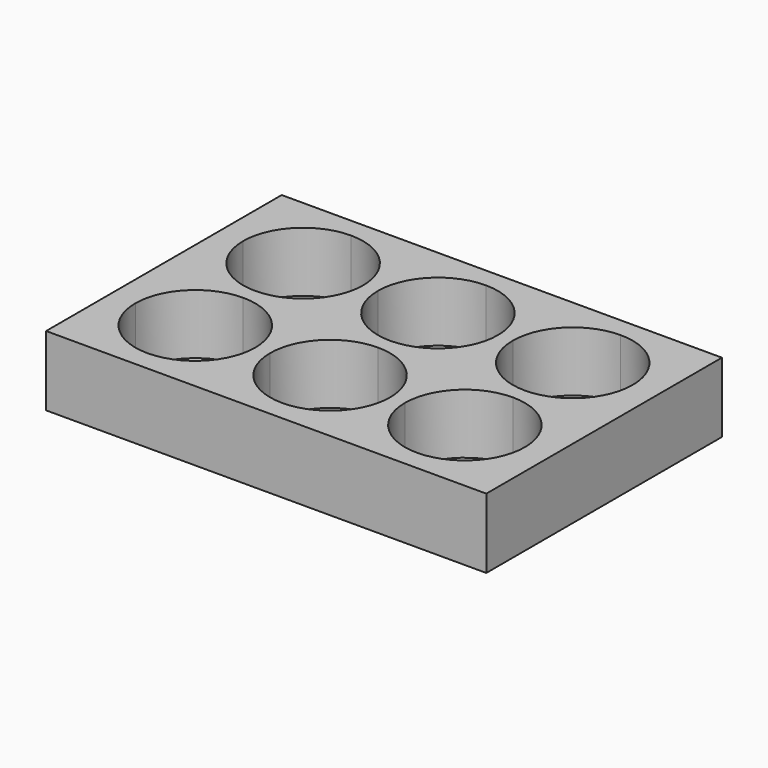
from build123d import *

# Parameters (mm, degrees)
F0_W     = 127.76
F0_H     = 85.47
F1_DEPTH = 20.27
F3_DEPTH = 17.4


with BuildPart() as f1:
    # F0 (on Top) → F1 (new body)
    with BuildSketch(Plane.XY):
        Rectangle(F0_W, F0_H)
    extrude(amount=F1_DEPTH)

    # F2 (on face) → F3 (cut)
    with BuildSketch(Plane.XY.offset(20.27)):
        with BuildLine():
            Line((-39.185, 19.64), (-39.185, 37.04))
            ThreePointArc((-39.185, 37.04), (-51.4886579926, 31.9436579926), (-56.585, 19.64))
            Line((-56.585, 19.64), (-39.185, 19.64))
        make_face()
        with BuildLine():
            ThreePointArc((-21.785, 19.64), (-26.8813420074, 31.9436579926), (-39.185, 37.04))
            Line((-39.185, 37.04), (-39.185, 19.64))
            Line((-39.185, 19.64), (-21.785, 19.64))
        make_face()
        with BuildLine():
            Line((-21.785, 19.64), (-39.185, 19.64))
            Line((-39.185, 19.64), (-39.185, 2.24))
            ThreePointArc((-39.185, 2.24), (-26.8813420074, 7.3363420074), (-21.785, 19.64))
        make_face()
        with BuildLine():
            Line((-39.185, 2.24), (-39.185, 19.64))
            Line((-39.185, 19.64), (-56.585, 19.64))
            ThreePointArc((-56.585, 19.64), (-51.4886579926, 7.3363420074), (-39.185, 2.24))
        make_face()
        with BuildLine():
            ThreePointArc((-39.185, -2.08), (-51.4886579926, -7.1763420074), (-56.585, -19.48))
            Line((-56.585, -19.48), (-39.185, -19.48))
            Line((-39.185, -19.48), (-39.185, -2.08))
        make_face()
        with BuildLine():
            ThreePointArc((-21.785, -19.48), (-26.8813420074, -7.1763420074), (-39.185, -2.08))
            Line((-39.185, -2.08), (-39.185, -19.48))
            Line((-39.185, -19.48), (-21.785, -19.48))
        make_face()
        with BuildLine():
            Line((-39.185, -19.48), (-56.585, -19.48))
            ThreePointArc((-56.585, -19.48), (-51.4886579926, -31.7836579926), (-39.185, -36.88))
            Line((-39.185, -36.88), (-39.185, -19.48))
        make_face()
        with BuildLine():
            Line((-39.185, -19.48), (-39.185, -36.88))
            ThreePointArc((-39.185, -36.88), (-26.8813420074, -31.7836579926), (-21.785, -19.48))
            Line((-21.785, -19.48), (-39.185, -19.48))
        make_face()
        with BuildLine():
            Line((-0.065, 2.24), (-0.065, 19.64))
            Line((-0.065, 19.64), (-17.465, 19.64))
            ThreePointArc((-17.465, 19.64), (-12.3686579926, 7.3363420074), (-0.065, 2.24))
        make_face()
        with BuildLine():
            Line((-0.065, 19.64), (-0.065, 37.04))
            ThreePointArc((-0.065, 37.04), (-12.3686579926, 31.9436579926), (-17.465, 19.64))
            Line((-17.465, 19.64), (-0.065, 19.64))
        make_face()
        with BuildLine():
            ThreePointArc((17.335, 19.64), (12.2386579926, 31.9436579926), (-0.065, 37.04))
            Line((-0.065, 37.04), (-0.065, 19.64))
            Line((-0.065, 19.64), (17.335, 19.64))
        make_face()
        with BuildLine():
            Line((17.335, 19.64), (-0.065, 19.64))
            Line((-0.065, 19.64), (-0.065, 2.24))
            ThreePointArc((-0.065, 2.24), (12.2386579926, 7.3363420074), (17.335, 19.64))
        make_face()
        with BuildLine():
            ThreePointArc((17.335, -19.48), (12.2386579926, -7.1763420074), (-0.065, -2.08))
            Line((-0.065, -2.08), (-0.065, -19.48))
            Line((-0.065, -19.48), (17.335, -19.48))
        make_face()
        with BuildLine():
            Line((-0.065, -19.48), (-0.065, -2.08))
            ThreePointArc((-0.065, -2.08), (-12.3686579926, -7.1763420074), (-17.465, -19.48))
            Line((-17.465, -19.48), (-0.065, -19.48))
        make_face()
        with BuildLine():
            ThreePointArc((-17.465, -19.48), (-12.3686579926, -31.7836579926), (-0.065, -36.88))
            Line((-0.065, -36.88), (-0.065, -19.48))
            Line((-0.065, -19.48), (-17.465, -19.48))
        make_face()
        with BuildLine():
            Line((-0.065, -19.48), (-0.065, -36.88))
            ThreePointArc((-0.065, -36.88), (12.2386579926, -31.7836579926), (17.335, -19.48))
            Line((17.335, -19.48), (-0.065, -19.48))
        make_face()
        with BuildLine():
            Line((39.055, -36.88), (39.055, -19.48))
            Line((39.055, -19.48), (21.655, -19.48))
            ThreePointArc((21.655, -19.48), (26.7513420074, -31.7836579926), (39.055, -36.88))
        make_face()
        with BuildLine():
            Line((21.655, -19.48), (39.055, -19.48))
            Line((39.055, -19.48), (39.055, -2.08))
            ThreePointArc((39.055, -2.08), (26.7513420074, -7.1763420074), (21.655, -19.48))
        make_face()
        with BuildLine():
            Line((39.055, -19.48), (56.455, -19.48))
            ThreePointArc((56.455, -19.48), (51.3586579926, -7.1763420074), (39.055, -2.08))
            Line((39.055, -2.08), (39.055, -19.48))
        make_face()
        with BuildLine():
            ThreePointArc((39.055, -36.88), (51.3586579926, -31.7836579926), (56.455, -19.48))
            Line((56.455, -19.48), (39.055, -19.48))
            Line((39.055, -19.48), (39.055, -36.88))
        make_face()
        with BuildLine():
            ThreePointArc((39.055, 2.24), (51.3586579926, 7.3363420074), (56.455, 19.64))
            Line((56.455, 19.64), (39.055, 19.64))
            Line((39.055, 19.64), (39.055, 2.24))
        make_face()
        with BuildLine():
            Line((39.055, 19.64), (39.055, 37.04))
            ThreePointArc((39.055, 37.04), (26.7513420074, 31.9436579926), (21.655, 19.64))
            Line((21.655, 19.64), (39.055, 19.64))
        make_face()
        with BuildLine():
            ThreePointArc((56.455, 19.64), (51.3586579926, 31.9436579926), (39.055, 37.04))
            Line((39.055, 37.04), (39.055, 19.64))
            Line((39.055, 19.64), (56.455, 19.64))
        make_face()
        with BuildLine():
            Line((39.055, 2.24), (39.055, 19.64))
            Line((39.055, 19.64), (21.655, 19.64))
            ThreePointArc((21.655, 19.64), (26.7513420074, 7.3363420074), (39.055, 2.24))
        make_face()
    extrude(amount=-F3_DEPTH, mode=Mode.SUBTRACT)


solid = f1.part
